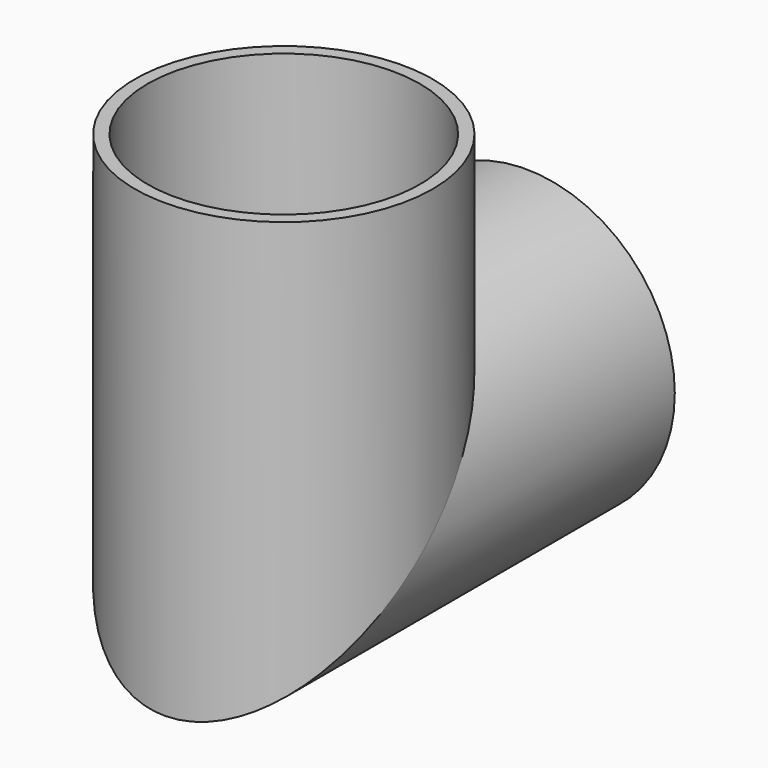
from build123d import *

# Parameters (mm, degrees)
F0_R = 49.2138560694
F3_R = 45


with BuildPart() as f2:
    # F2: sweep along a path in F1
    with BuildLine(Plane.YZ) as f2_path:
        Line((0, 0), (-100, 0))
        Line((-100, 0), (-100, 100))
    # F0 (on Front) → F2 (sweep)
    with BuildSketch(Plane.XZ):
        Circle(F0_R)
    sweep(path=f2_path.line, transition=Transition.RIGHT)

    # F5: sweep along a path in F4
    with BuildLine(Plane.YZ) as f5_path:
        Line((0, 0), (-100, 0))
        Line((-100, 0), (-100, 100))
    # F3 (on face) → F5 (sweep, cut)
    with BuildSketch(Plane(origin=(0, 0, 0), x_dir=(-1, 0, 0), z_dir=(0, 1, 0))):
        Circle(F3_R)
    sweep(path=f5_path.line, transition=Transition.RIGHT, mode=Mode.SUBTRACT)


solid = f2.part
